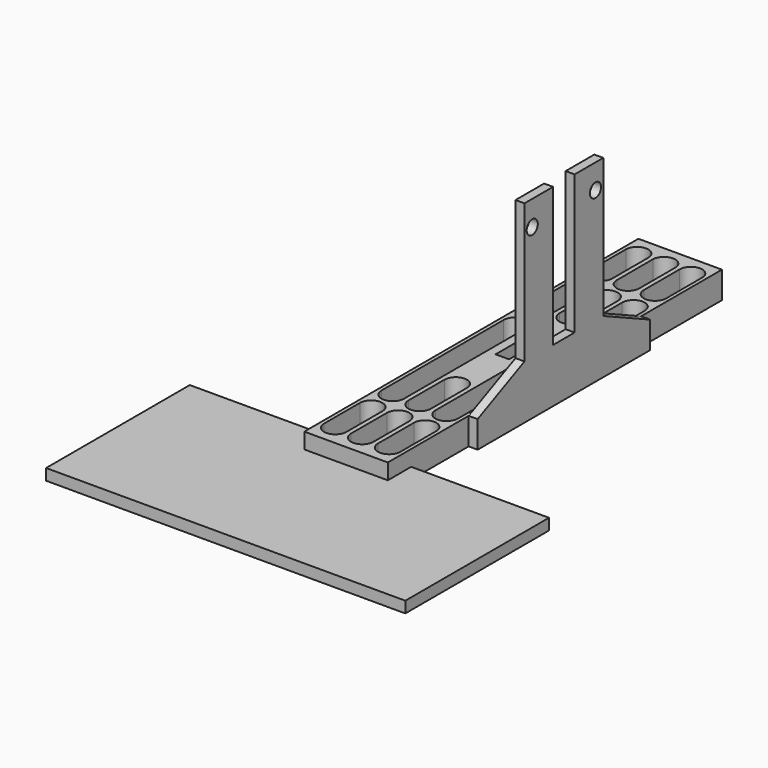
from build123d import *

# Parameters (mm, degrees)
SKETCH_W        = 18.6
SKETCH_H        = 93
PAD_DEPTH       = 6
SKETCH001_W     = 3
SKETCH001_H     = 6
POCKET_DEPTH    = 6
POCKET001_DEPTH = 8
PAD001_DEPTH    = 2
SKETCH004_R     = 1.551846
SKETCH004_R_2   = 1.552141
POCKET002_DEPTH = 55
SKETCH005_W     = 80
SKETCH005_H     = 40
PAD002_DEPTH    = 2.5


with BuildPart() as part:
    # Sketch → Pad (new body)
    with BuildSketch(Plane.XY):
        Rectangle(SKETCH_W, SKETCH_H)
    extrude(amount=-PAD_DEPTH)

    # Sketch001 (on Face5 of Pad) → Pocket (cut)
    with BuildSketch(Plane.XY):
        Rectangle(SKETCH001_W, SKETCH001_H)
    extrude(amount=-POCKET_DEPTH, mode=Mode.SUBTRACT)

    # Sketch002 (on Face4 of Pocket) → Pocket001 (cut)
    with BuildSketch(Plane.XY):
        with BuildLine():
            ThreePointArc((-2.5, -42), (0, -44.5), (2.5, -42))
            Line((2.5, -42), (2.5, -32))
            ThreePointArc((2.5, -32), (0, -29.5), (-2.5, -32))
            Line((-2.5, -42), (-2.5, -32))
        make_face()
        with BuildLine():
            ThreePointArc((-8.5, -42), (-6, -44.5), (-3.5, -42))
            Line((-3.5, -42), (-3.5, -32))
            ThreePointArc((-3.5, -32), (-6, -29.5), (-8.5, -32))
            Line((-8.5, -42), (-8.5, -32))
        make_face()
        with BuildLine():
            ThreePointArc((3.5, -42), (6, -44.5), (8.5, -42))
            Line((8.5, -42), (8.5, -32))
            ThreePointArc((8.5, -32), (6, -29.5), (3.5, -32))
            Line((3.5, -42), (3.5, -32))
        make_face()
        with BuildLine():
            ThreePointArc((-2.487782, -26), (0.012218, -28.5), (2.512218, -26))
            Line((2.512218, -26), (2.512218, -16))
            ThreePointArc((2.512218, -16), (0.012218, -13.5), (-2.487782, -16))
            Line((-2.487782, -26), (-2.487782, -16))
        make_face()
        with BuildLine():
            ThreePointArc((-8.496945, -26), (-6, -28.496945), (-3.503055, -26))
            Line((-3.503055, -26), (-3.503055, 8))
            ThreePointArc((-3.503055, 8), (-6, 10.496945), (-8.496945, 8))
            Line((-8.496945, -26), (-8.496945, 8))
        make_face()
        with BuildLine():
            ThreePointArc((3.503055, -26), (6, -28.496945), (8.496945, -26))
            Line((8.496945, -26), (8.496945, 8))
            ThreePointArc((8.496945, 8), (6, 10.496945), (3.503055, 8))
            Line((3.503055, -26), (3.503055, 8))
        make_face()
        with BuildLine():
            ThreePointArc((2.5, 42), (0, 44.5), (-2.5, 42))
            Line((-2.5, 42), (-2.5, 32))
            ThreePointArc((-2.5, 32), (0, 29.5), (2.5, 32))
            Line((2.5, 42), (2.5, 32))
        make_face()
        with BuildLine():
            ThreePointArc((-3.5, 42), (-6, 44.5), (-8.5, 42))
            Line((-8.5, 42), (-8.5, 32))
            ThreePointArc((-8.5, 32), (-6, 29.5), (-3.5, 32))
            Line((-3.5, 42), (-3.5, 32))
        make_face()
        with BuildLine():
            ThreePointArc((8.5, 42), (6, 44.5), (3.5, 42))
            Line((3.5, 42), (3.5, 32))
            ThreePointArc((3.5, 32), (6, 29.5), (8.5, 32))
            Line((8.5, 42), (8.5, 32))
        make_face()
        with BuildLine():
            ThreePointArc((2.512218, 26), (0.012218, 28.5), (-2.487782, 26))
            Line((-2.487782, 26), (-2.487782, 16))
            ThreePointArc((-2.487782, 16), (0.012218, 13.5), (2.512218, 16))
            Line((2.512218, 26), (2.512218, 16))
        make_face()
        with BuildLine():
            ThreePointArc((-3.487782, 26), (-5.987782, 28.5), (-8.487782, 26))
            Line((-8.487782, 26), (-8.487782, 16))
            ThreePointArc((-8.487782, 16), (-5.987782, 13.5), (-3.487782, 16))
            Line((-3.487782, 26), (-3.487782, 16))
        make_face()
        with BuildLine():
            ThreePointArc((8.496945, 26), (6, 28.496945), (3.503055, 26))
            Line((3.503055, 26), (3.503055, 16))
            ThreePointArc((3.503055, 16), (6, 13.503055), (8.496945, 16))
            Line((8.496945, 26), (8.496945, 16))
        make_face()
    extrude(amount=-POCKET001_DEPTH, mode=Mode.SUBTRACT)

    # Sketch003 (on Face3 of Pocket001) → Pad001 (join)
    with BuildSketch(Plane.YZ.offset(9.3)):
        Polygon((-24, -6), (-24, 0), (-10.960923, 6), (-10.960923, 37), (-3, 37), (-3, 6), (3, 6), (3, 37), (10.971753, 37), (10.971753, 6), (24, 0), (24, -6), align=None)
    extrude(amount=PAD001_DEPTH)

    # Sketch004 → Pocket002 (cut)
    with BuildSketch(Plane.YZ.offset(11.3)):
        with Locations((-8.8, 31.464135)):
            Circle(SKETCH004_R)
        with Locations((8.8, 31.541361)):
            Circle(SKETCH004_R_2)
    extrude(amount=-POCKET002_DEPTH, mode=Mode.SUBTRACT)

    # Sketch005 (on Face5 of Pocket002) → Pad002 (join)
    with BuildSketch(Plane(origin=(0, 0, -6), x_dir=(1, 0, 0), z_dir=(0, 0, -1))):
        with Locations((0, 60)):
            Rectangle(SKETCH005_W, SKETCH005_H)
    extrude(amount=-PAD002_DEPTH)


solid = part.part
